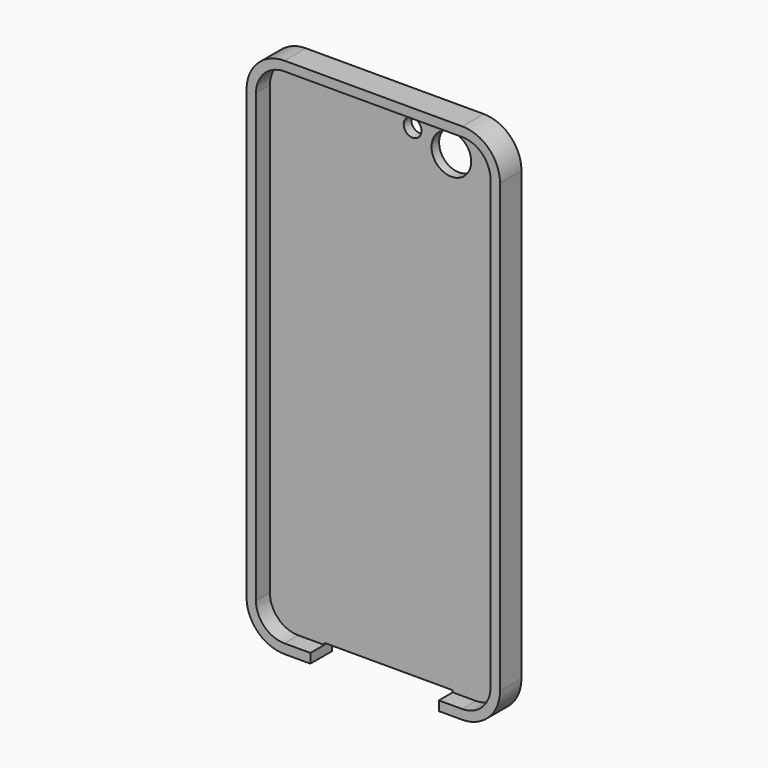
from build123d import *

# Parameters (mm, degrees)
F0_W     = 67.1
F0_H     = 138.3
F1_DEPTH = 3.55
F2_R     = 10
F3_T     = -2.5
F4_R     = 5.246846
F5_DEPTH = 12.5
F6_W     = 33.990787
F6_H     = 7.1
F7_DEPTH = 3
F8_R     = 2.352269
F9_DEPTH = 12.5


with BuildPart() as f1:
    # F0 (on Front) → F1 (new body, symmetric)
    with BuildSketch(Plane.XZ):
        Rectangle(F0_W, F0_H)
    extrude(amount=F1_DEPTH, both=True)

    # F2
    f2_edges = [f1.edges().sort_by_distance(p)[0] for p in [
        (33.55, 0, -69.15),
        (33.55, 0, 69.15),
        (-33.55, 0, -69.15),
        (-33.55, 0, 69.15),
    ]]
    fillet(f2_edges, radius=F2_R)

    # F3
    f3_openings = [f1.faces().sort_by_distance(p)[0] for p in [
        (0, -3.55, 0),
    ]]
    offset(amount=F3_T, openings=f3_openings)

    # F4 (on Front) → F5 (cut, symmetric)
    with BuildSketch(Plane.XZ):
        with Locations((16.993571, 58.656055)):
            Circle(F4_R)
    extrude(amount=F5_DEPTH, both=True, mode=Mode.SUBTRACT)

    # F6 (on face) → F7 (cut, symmetric)
    with BuildSketch(Plane(origin=(0, 0, -69.15), x_dir=(1, 0, 0), z_dir=(0, 0, -1))):
        with Locations((0.352152, 0)):
            Rectangle(F6_W, F6_H)
    extrude(amount=F7_DEPTH, both=True, mode=Mode.SUBTRACT)

    # F8 (on Front) → F9 (cut, symmetric)
    with BuildSketch(Plane.XZ):
        with Locations((6.732481, 61.507728)):
            Circle(F8_R)
    extrude(amount=F9_DEPTH, both=True, mode=Mode.SUBTRACT)


solid = f1.part
